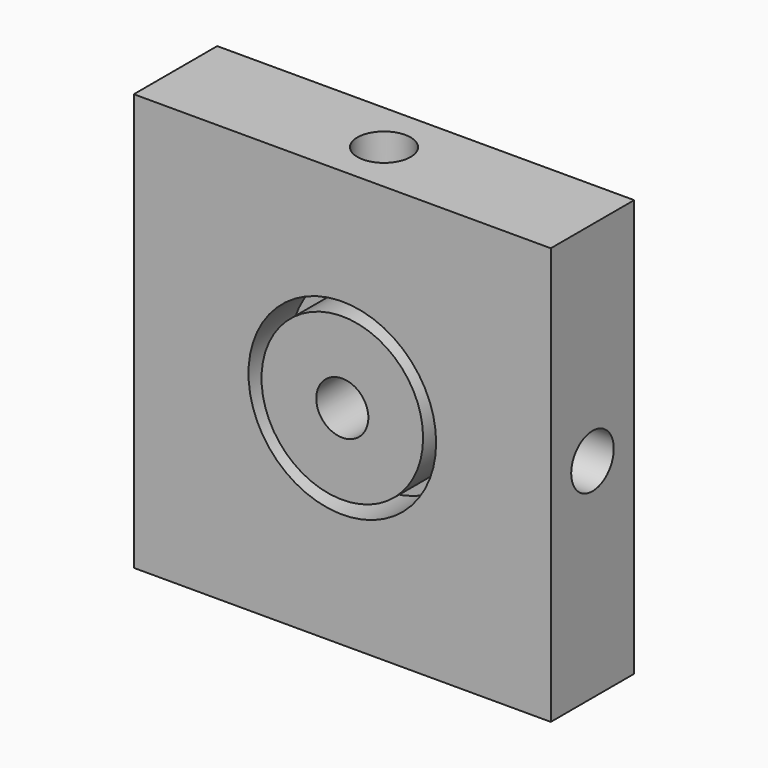
from build123d import *

# Parameters (mm, degrees)
F0_W      = 40
F0_H      = 40
F1_DEPTH  = 10
F3_D      = 5
F4_R      = 9
F4_R_2    = 7.75
F5_DEPTH  = 5
F7_D      = 5.1054
F7_DEPTH  = 5
F7_TIP    = 1.5338169022
F9_D      = 5.1054
F9_DEPTH  = 5
F9_TIP    = 1.5338169022
F11_D     = 5.1054
F11_DEPTH = 5
F11_TIP   = 1.5338169022
F13_D     = 5.1054
F13_DEPTH = 5
F13_TIP   = 1.5338169022


with BuildPart() as f1:
    # F0 (on Front) → F1 (new body)
    with BuildSketch(Plane.XZ):
        Rectangle(F0_W, F0_H)
    extrude(amount=F1_DEPTH)

    # F3 (through all)
    with Locations(Plane.XZ.offset(10)):
        with Locations((0, 0)):
            Hole(F3_D / 2)

    # F4 (on face) → F5 (cut)
    with BuildSketch(Plane.XZ.offset(10)):
        Circle(F4_R)
        Circle(F4_R_2, mode=Mode.SUBTRACT)
    extrude(amount=-F5_DEPTH, mode=Mode.SUBTRACT)

    # F7
    with Locations(Plane.XY.offset(20)):
        with Locations((0, -5)):
            Hole(F7_D / 2, depth=F7_DEPTH)
            with Locations((0, 0, -(F7_DEPTH + F7_TIP / 2))):  # 118° drill point
                Cone(0, F7_D / 2, F7_TIP, mode=Mode.SUBTRACT)

    # F9
    with Locations(Plane(origin=(0, 0, -20), x_dir=(1, 0, 0), z_dir=(0, 0, -1))):
        with Locations((0, 5)):
            Hole(F9_D / 2, depth=F9_DEPTH)
            with Locations((0, 0, -(F9_DEPTH + F9_TIP / 2))):  # 118° drill point
                Cone(0, F9_D / 2, F9_TIP, mode=Mode.SUBTRACT)

    # F11
    with Locations(Plane(origin=(-20, 0, 0), x_dir=(0, -1, 0), z_dir=(-1, 0, 0))):
        with Locations((5, 0)):
            Hole(F11_D / 2, depth=F11_DEPTH)
            with Locations((0, 0, -(F11_DEPTH + F11_TIP / 2))):  # 118° drill point
                Cone(0, F11_D / 2, F11_TIP, mode=Mode.SUBTRACT)

    # F13
    with Locations(Plane.YZ.offset(20)):
        with Locations((-5, 0)):
            Hole(F13_D / 2, depth=F13_DEPTH)
            with Locations((0, 0, -(F13_DEPTH + F13_TIP / 2))):  # 118° drill point
                Cone(0, F13_D / 2, F13_TIP, mode=Mode.SUBTRACT)


solid = f1.part
